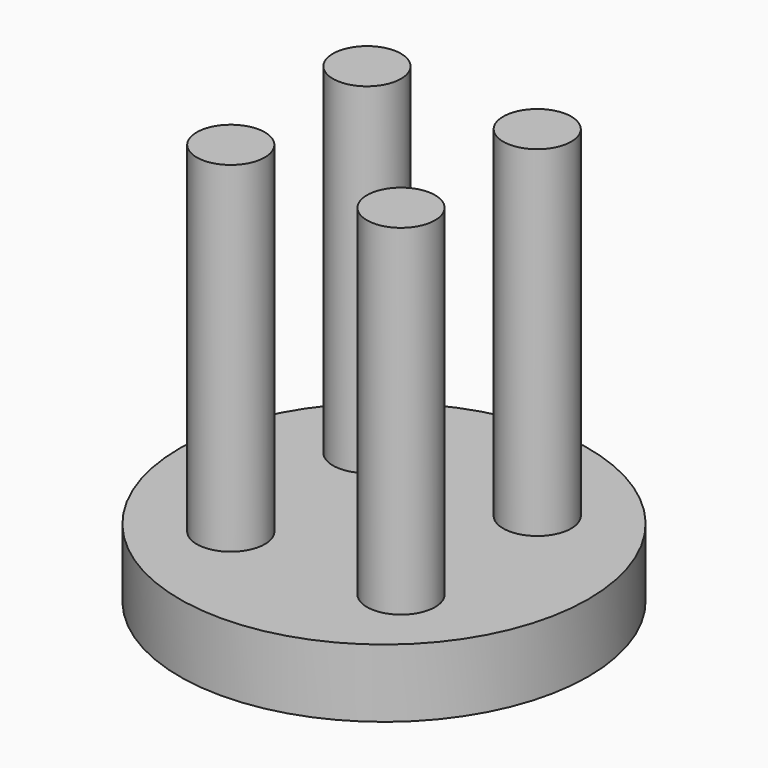
from build123d import *

# Parameters (mm, degrees)
SKETCH_R     = 60
PAD_DEPTH    = 20
SKETCH001_R  = 10
PAD001_DEPTH = 100


with BuildPart() as part:
    # Sketch → Pad (new body)
    with BuildSketch(Plane.XY):
        Circle(SKETCH_R)
    extrude(amount=PAD_DEPTH)

    # Sketch001 → Pad001 (new body)
    with BuildSketch(Plane.XY.offset(20)):
        with Locations((-25, 25)):
            Circle(SKETCH001_R)
        with Locations((25, 25)):
            Circle(SKETCH001_R)
        with Locations((-25, -25)):
            Circle(SKETCH001_R)
        with Locations((25, -25)):
            Circle(SKETCH001_R)
    extrude(amount=PAD001_DEPTH)


solid = part.part
